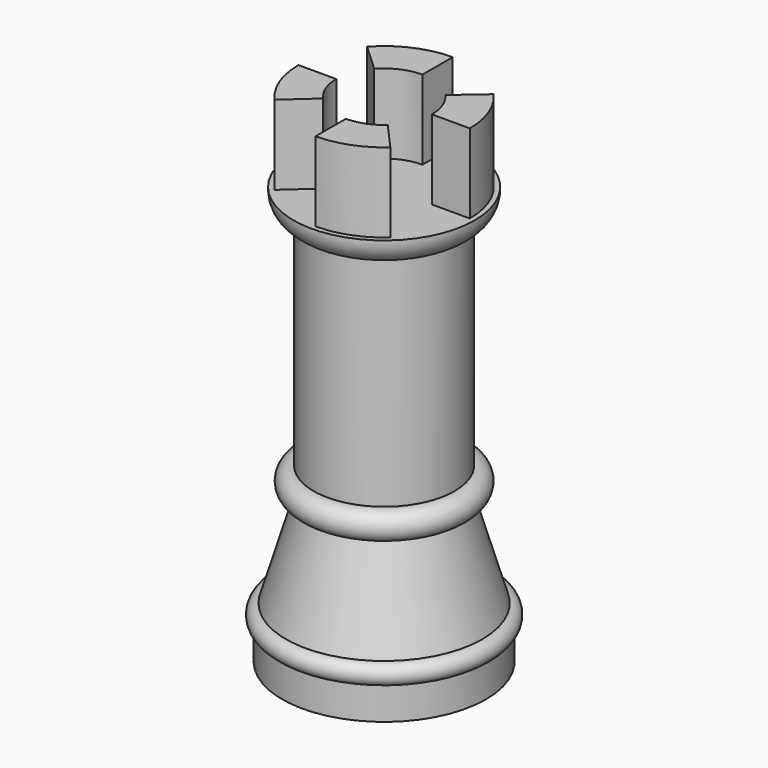
from build123d import *

# Parameters (mm, degrees)
F3_DEPTH = 27.686


with BuildPart() as f1:
    # F0 (on Front) → F1 (revolve)
    with BuildSketch(Plane.XZ):
        with BuildLine():
            Line((26.688047, 52.853037), (25.21752, 52.853037))
            Line((25.21752, 52.853037), (25.21752, 76.20883))
            Line((25.21752, 76.20883), (0, 76.20883))
            Line((0, 76.20883), (0, 52.853037))
            Line((0, 52.853037), (0, -70.189469))
            Line((0, -70.189469), (29.995641, -70.189469))
            Line((29.995641, -70.189469), (29.995641, -60.7077))
            ThreePointArc((29.995641, -60.7077), (31.735835, -57.400454), (28.893111, -54.974537))
            Line((28.893111, -54.974537), (20.734377, -27.41125))
            ThreePointArc((20.734377, -27.41125), (25.157891, -23.331884), (20.734377, -19.252518))
            Line((20.734377, -19.252518), (20.734377, 44.914812))
            ThreePointArc((20.734377, 44.914812), (25.164456, 47.793991), (26.688047, 52.853037))
        make_face()
    revolve(axis=Axis((0, 0, -8.668216), (0, 0, -1)))

    # F2 (on face) → F3 (cut)
    with BuildSketch(Plane.XY.offset(52.853037)):
        with BuildLine():
            Line((-25.349595, 0), (-14.087875, 0))
            ThreePointArc((-14.087875, 0), (-13.145353, -5.066351), (-10.443904, -9.454793))
            Line((-10.443904, -9.454793), (-18.809371, -16.994397))
            ThreePointArc((-18.809371, -16.994397), (-10.290794, -23.166819), (0, -25.349595))
            Line((0, -25.349595), (0, -14.087875))
            ThreePointArc((0, -14.087875), (5.059623, -13.147944), (9.444099, -10.453574))
            Line((9.444099, -10.453574), (16.930807, -18.86663))
            ThreePointArc((16.930807, -18.86663), (23.149417, -10.32988), (25.349595, 0))
            Line((25.349595, 0), (14.087875, 0))
            ThreePointArc((14.087875, 0), (13.14881, 5.057371), (10.456809, 9.440518))
            Line((10.456809, 9.440518), (18.981221, 16.802238))
            ThreePointArc((18.981221, 16.802238), (10.408459, 23.114193), (0, 25.349595))
            Line((0, 25.349595), (0, 14.087875))
            ThreePointArc((0, 14.087875), (-5.722722, 12.873177), (-10.458583, 9.438552))
            Line((-10.458583, 9.438552), (-18.716187, 17.096968))
            ThreePointArc((-18.716187, 17.096968), (-23.63313, 9.169357), (-25.349595, 0))
        make_face()
    extrude(amount=F3_DEPTH, mode=Mode.SUBTRACT)


solid = f1.part
